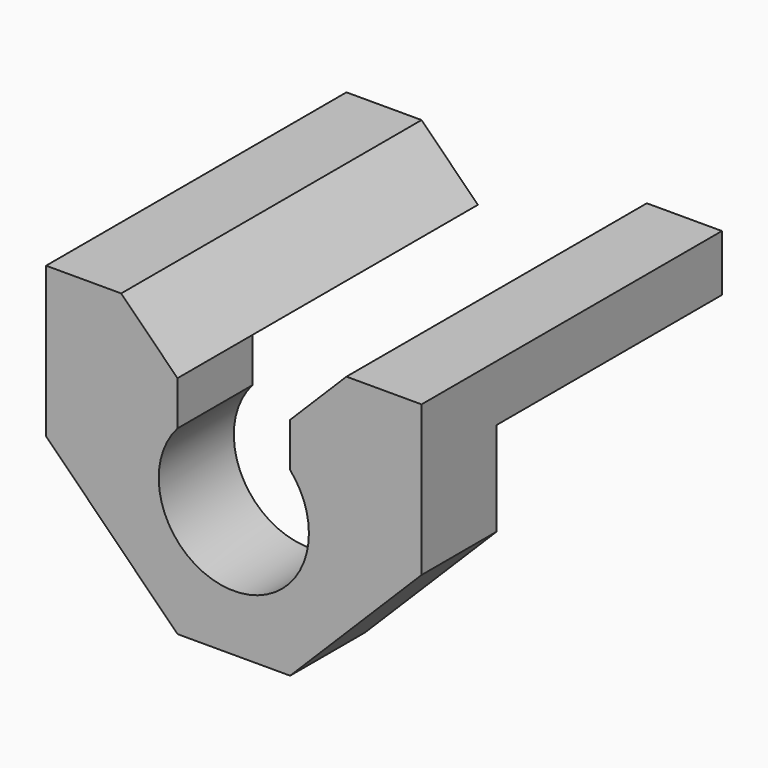
from build123d import *

# Parameters (mm, degrees)
F1_DEPTH = 5
F2_SIZE  = 7
F3_W     = 7
F3_H     = 3
F4_DEPTH = 15
F5_SIZE  = 3


with BuildPart() as f1:
    # F0 (on Front) → F1 (new body)
    with BuildSketch(Plane.XZ):
        with BuildLine():
            ThreePointArc((3, 2.645751), (3.741657, 1.414214), (4, 0))
            ThreePointArc((4, 0), (-1.414214, -3.741657), (-3, 2.645751))
            Line((-3, 2.645751), (-3, 8))
            Line((-3, 8), (-10, 8))
            Line((-10, 8), (-10, -7))
            Line((-10, -7), (0, -7))
            Line((0, -7), (10, -7))
            Line((10, -7), (10, 8))
            Line((10, 8), (3, 8))
            Line((3, 8), (3, 2.645751))
        make_face()
    extrude(amount=F1_DEPTH)

    # F2
    f2_edges = [f1.edges().sort_by_distance(p)[0] for p in [
        (-10, -2.5, -7),
        (10, -2.5, -7),
    ]]
    chamfer(f2_edges, length=F2_SIZE)

    # F3 (on face) → F4 (join)
    with BuildSketch(Plane(origin=(0, 0, 0), x_dir=(-1, 0, 0), z_dir=(0, 1, 0))):
        with Locations((-6.5, 6.5)):
            Rectangle(F3_W, F3_H)
        with Locations((6.5, 6.5)):
            Rectangle(F3_W, F3_H)
    extrude(amount=F4_DEPTH)

    # F5
    f5_edges = [f1.edges().sort_by_distance(p)[0] for p in [
        (-3, 5, 8),
        (3, 5, 8),
    ]]
    chamfer(f5_edges, length=F5_SIZE)


solid = f1.part
